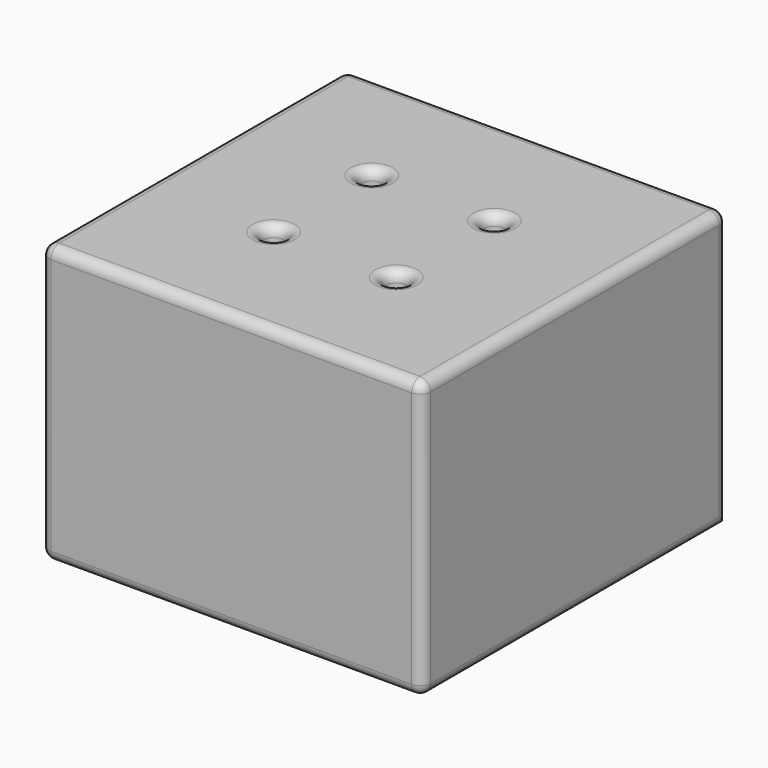
from build123d import *

# Parameters (mm, degrees)
F0_W           = 110
F0_H           = 110
F0_W_2         = 92
F0_H_2         = 92
F1_DEPTH       = 80
F2_DEPTH       = 64
F4_D           = 6.1
F4_CBORE_D     = 11
F4_CBORE_DEPTH = 6.5
F5_R           = 3
F6_R           = 1.5


with BuildPart() as f1:
    # F0 (on Top) → F1 (new body)
    with BuildSketch(Plane.XY):
        Rectangle(F0_W, F0_H)
        Rectangle(F0_W_2, F0_H_2, mode=Mode.SUBTRACT)
        Rectangle(F0_W_2, F0_H_2)
    extrude(amount=F1_DEPTH)

    # F0 (on Top) → F2 (cut)
    with BuildSketch(Plane.XY):
        Rectangle(F0_W_2, F0_H_2)
    extrude(amount=F2_DEPTH, mode=Mode.SUBTRACT)

    # F4 (through all)
    with Locations(Plane(origin=(0, 0, 64), x_dir=(1, 0, 0), z_dir=(0, 0, -1))):
        with Locations((17.67767, 17.67767), (17.67767, -17.67767), (-17.67767, -17.67767), (-17.67767, 17.67767)):
            CounterBoreHole(F4_D / 2, F4_CBORE_D / 2, F4_CBORE_DEPTH)

    # F5
    f5_edges = [f1.edges().sort_by_distance(p)[0] for p in [
        (55, 0, 80),
        (0, -55, 80),
        (0, 55, 80),
        (-55, 0, 80),
        (-20.72767, -17.67767, 80),
        (14.62767, -17.67767, 80),
        (-20.72767, 17.67767, 80),
        (14.62767, 17.67767, 80),
        (55, -55, 40),
        (55, 55, 40),
        (55, 0, 0),
        (-55, 0, 0),
        (-55, 55, 40),
        (-55, -55, 40),
        (0, -55, 0),
    ]]
    fillet(f5_edges, radius=F5_R)

    # F6
    f6_edges = [f1.edges().sort_by_distance(p)[0] for p in [
        (46, 0, 64),
        (0, -46, 64),
        (0, 46, 64),
        (-46, 0, 64),
        (-23.17767, -17.67767, 64),
        (12.17767, -17.67767, 64),
        (-23.17767, 17.67767, 64),
        (12.17767, 17.67767, 64),
        (-46, -46, 32),
        (46, -46, 32),
        (0, -46, 0),
        (46, 46, 32),
        (46, 0, 0),
        (-46, 46, 32),
        (-46, 0, 0),
        (0, 46, 0),
    ]]
    fillet(f6_edges, radius=F6_R)


solid = f1.part
